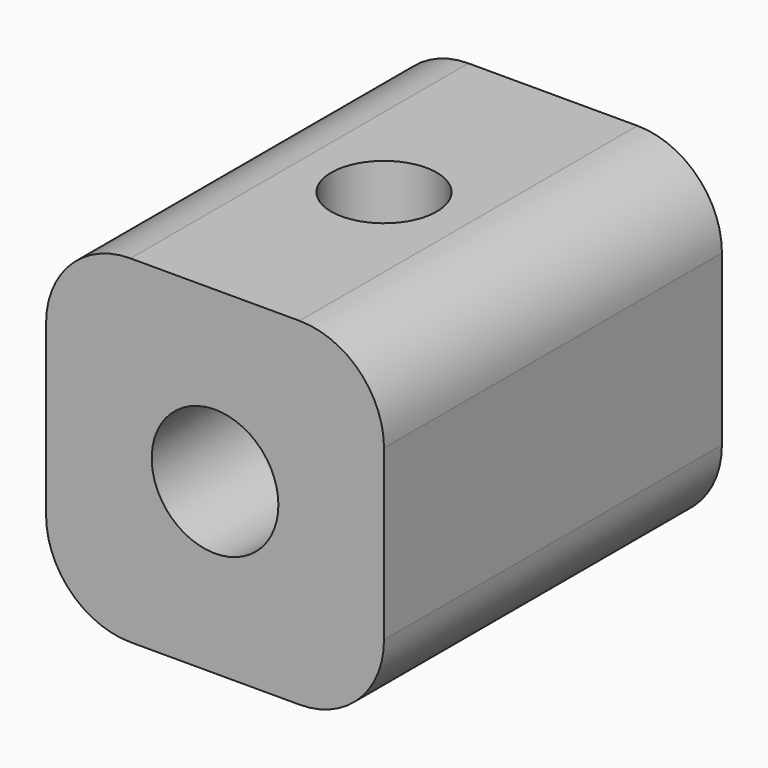
from build123d import *

# Parameters (mm, degrees)
F0_R          = 15
F1_DEPTH      = 50
F1_DEPTH_BACK = 50
F3_D          = 25
F3_DEPTH      = 30
F3_TIP        = 7.5107577378


with BuildPart() as f1:
    # F0 (on Front) → F1 (new body, two sides)
    with BuildSketch(Plane.XZ) as f1_sk:
        with BuildLine():
            Line((20, 40), (-20, 40))
            ThreePointArc((-20, 40), (-34.1421356237, 34.1421356237), (-40, 20))
            Line((-40, 20), (-40, -20))
            ThreePointArc((-40, -20), (-34.1421356237, -34.1421356237), (-20, -40))
            Line((-20, -40), (20, -40))
            ThreePointArc((20, -40), (34.1421356237, -34.1421356237), (40, -20))
            Line((40, -20), (40, 20))
            ThreePointArc((40, 20), (34.1421356237, 34.1421356237), (20, 40))
        make_face()
        Circle(F0_R, mode=Mode.SUBTRACT)
    extrude(amount=F1_DEPTH)
    extrude(f1_sk.sketch, amount=-F1_DEPTH_BACK)

    # F3
    with Locations(Plane.XY.offset(40)):
        with Locations((0, 0)):
            Hole(F3_D / 2, depth=F3_DEPTH)
            with Locations((0, 0, -(F3_DEPTH + F3_TIP / 2))):  # 118° drill point
                Cone(0, F3_D / 2, F3_TIP, mode=Mode.SUBTRACT)


solid = f1.part
